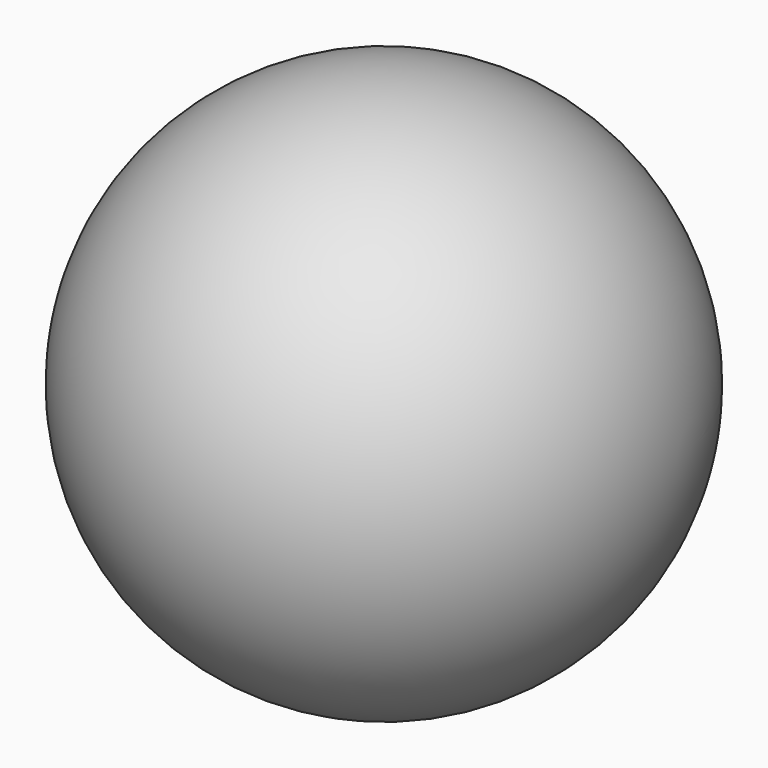
from build123d import *


with BuildPart() as f1:
    # F0 (on Top) → F1 (revolve)
    with BuildSketch(Plane.XY):
        with BuildLine():
            Line((0, 0), (61.5984241573, 15.4234931628))
            ThreePointArc((61.5984241573, 15.4234931628), (-15.4234931628, 61.5984241573), (-61.5984241573, -15.4234931628))
            Line((-61.5984241573, -15.4234931628), (0, 0))
        make_face()
    revolve(axis=Axis((-30.7992120786, -7.7117465814, 0), (0.9700539237, 0.2428896561, 0)))


solid = f1.part
